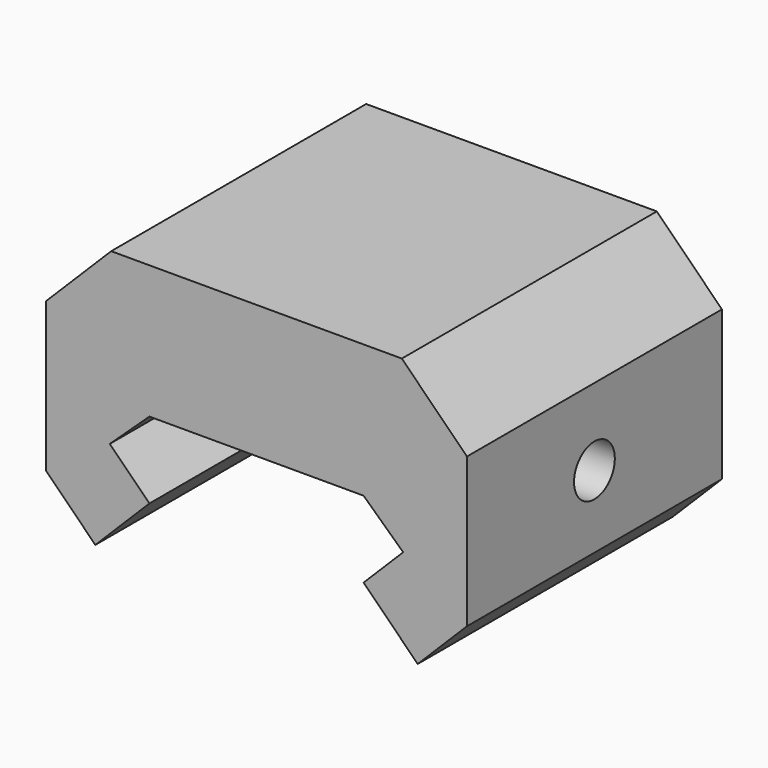
from build123d import *

# Parameters (mm, degrees)
F1_DEPTH = 25
F2_W     = 7.596032
F2_H     = 21.10009
F2_W_2   = 10.268714
F2_H_2   = 30.102797
F3_DEPTH = 25
F4_R     = 2
F5_DEPTH = 35
F7_DEPTH = 3


with BuildPart() as f1:
    # F0 (on Front) → F1 (new body)
    with BuildSketch(Plane.XZ):
        Polygon((-11.404762, -2.895238), (-8.3, 0), (8.5, 0), (11.604762, -2.895238), (8.5, -6), (12.742641, -10.242641), (22.464761, -0.520521), (11.5, 10.44424), (-11.3, 10.44424), (-22.264761, -0.520521), (-12.542641, -10.242641), (-8.3, -6), align=None)
    extrude(amount=F1_DEPTH)

    # F2 (on face) → F3 (cut)
    with BuildSketch(Plane.XZ.offset(25)):
        with Locations((-20.202778, -0.557668)):
            Rectangle(F2_W, F2_H)
        with Locations((21.739119, -1.542339)):
            Rectangle(F2_W_2, F2_H_2)
    extrude(amount=-F3_DEPTH, mode=Mode.SUBTRACT)

    # F4 (on face) → F5 (cut)
    with BuildSketch(Plane.YZ.offset(16.604762)):
        with Locations((-12.5, -0.695238)):
            Circle(F4_R)
    extrude(amount=-F5_DEPTH, mode=Mode.SUBTRACT)

    # F6 (on face) → F7 (cut)
    with BuildSketch(Plane(origin=(-16.404762, 0, 0), x_dir=(0, -1, 0), z_dir=(-1, 0, 0))):
        Polygon((15.321942, -3.588329), (16.416462, 0.30209), (13.59452, 3.195181), (9.678058, 2.197854), (8.583538, -1.692565), (11.40548, -4.585657), align=None)
    extrude(amount=-F7_DEPTH, mode=Mode.SUBTRACT)


solid = f1.part
